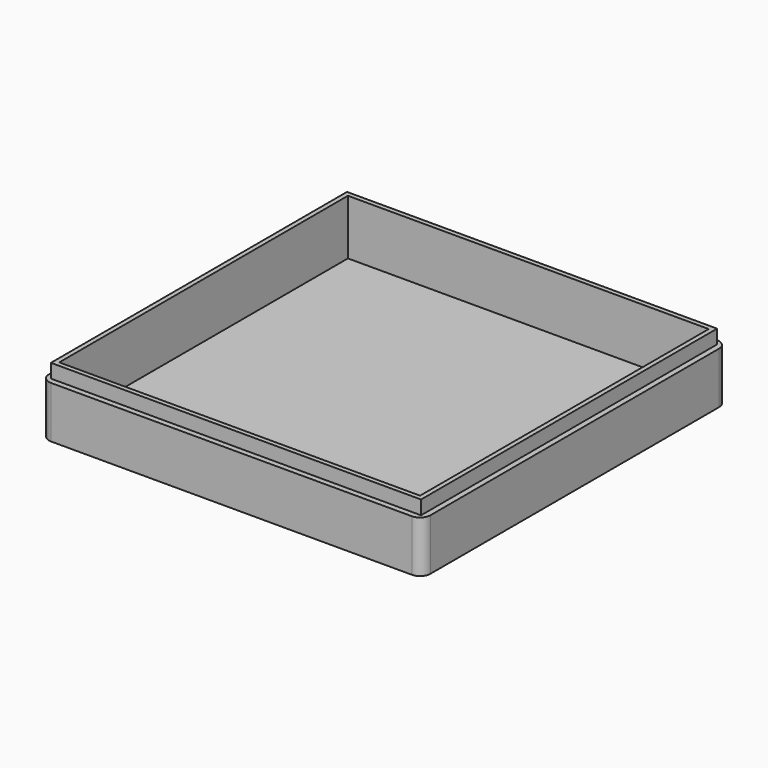
from build123d import *

# Parameters (mm, degrees)
F0_W     = 74
F0_H     = 74
F0_W_2   = 70
F0_H_2   = 70
F1_DEPTH = 10
F2_DEPTH = 2
F3_W     = 71.8
F3_H     = 71.8
F3_W_2   = 70
F3_H_2   = 70
F4_DEPTH = 2.7
F5_R     = 2


with BuildPart() as f1:
    # F0 (on Top) → F1 (new body)
    with BuildSketch(Plane.XY):
        with Locations((-2, -2)):
            Rectangle(F0_W, F0_H)
        with Locations((-2, -2)):
            Rectangle(F0_W_2, F0_H_2, mode=Mode.SUBTRACT)
    extrude(amount=F1_DEPTH)

    # F0 (on Top) → F2 (join)
    with BuildSketch(Plane.XY):
        with Locations((-2, -2)):
            Rectangle(F0_W_2, F0_H_2)
    extrude(amount=F2_DEPTH)

    # F3 (on face) → F4 (join)
    with BuildSketch(Plane.XY.offset(10)):
        with Locations((-2, -2)):
            Rectangle(F3_W, F3_H)
        with Locations((-2, -2)):
            Rectangle(F3_W_2, F3_H_2, mode=Mode.SUBTRACT)
    extrude(amount=F4_DEPTH)

    # F5
    f5_edges = [f1.edges().sort_by_distance(p)[0] for p in [
        (-39, -39, 5),
        (35, -39, 5),
        (35, 35, 5),
        (-39, 35, 5),
    ]]
    fillet(f5_edges, radius=F5_R)


solid = f1.part
